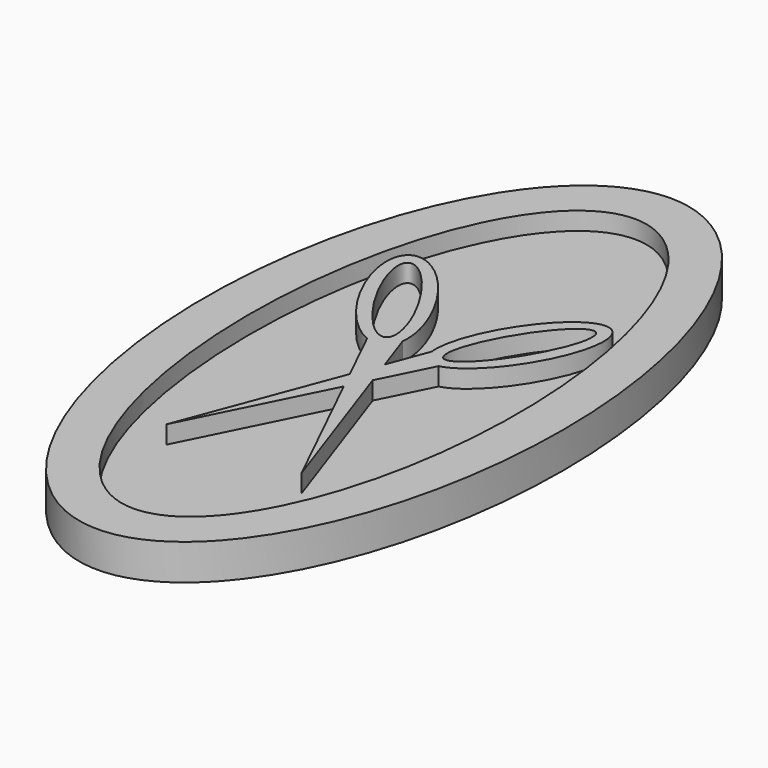
from build123d import *

# Parameters (mm, degrees)
F1_DEPTH = 2.54
F3_DEPTH = 1.27
F5_DEPTH = 1.27


with BuildPart() as f1:
    # F0 (on Top) → F1 (new body)
    with BuildSketch(Plane.XY):
        with BuildLine():
            add(Edge.make_bspline(
                [(0, 25.4), (-21.9970452561, 25.4), (-10.9985226281, -12.7), (0, -50.8), (10.9985226281, -12.7), (21.9970452561, 25.4), (0, 25.4)],
                knots=[0, 0, 0, 2.0943951024, 2.0943951024, 4.1887902048, 4.1887902048, 6.2831853072, 6.2831853072, 6.2831853072], degree=2, weights=[1, 0.5, 1, 0.5, 1, 0.5, 1]))
        make_face()
    extrude(amount=F1_DEPTH)

    # F2 (on face) → F3 (cut)
    with BuildSketch(Plane.XY.offset(2.54)):
        with BuildLine():
            add(Edge.make_bspline(
                [(0, 22.225), (-16.4977839421, 22.225), (-8.248891971, -11.1125), (0, -44.45), (8.248891971, -11.1125), (16.4977839421, 22.225), (0, 22.225)],
                knots=[0, 0, 0, 2.0943951024, 2.0943951024, 4.1887902048, 4.1887902048, 6.2831853072, 6.2831853072, 6.2831853072], degree=2, weights=[1, 0.5, 1, 0.5, 1, 0.5, 1]))
        make_face()
    extrude(amount=-F3_DEPTH, mode=Mode.SUBTRACT)

    # F4 (on face) → F5 (join)
    with BuildSketch(Plane.XY.offset(1.27)):
        with BuildLine():
            add(Edge.make_bspline(
                [(-2.6166992996, 1.7728842483), (-1.8846172421, 1.4764217718), (-1.4218727238, 1.7528665292)],
                knots=[5.7964565865, 5.7964565865, 5.7964565865, 6.2831853072, 6.2831853072, 6.2831853072], degree=2, weights=[1, 0.9705327618, 1]))
            Line((-2.6166992996, 1.7728842483), (-0.701467986, -2.1578199175))
            Line((-0.701467986, -2.1578199175), (0.0940304651, -0.04659023))
            Line((0.0940304651, -0.04659023), (-0.8801152187, 2.7570072737))
            add(Edge.make_bspline(
                [(-1.4218727238, 1.7528665292), (-0.9772507181, 2.0184848512), (-0.8801152187, 2.7570072737)],
                knots=[0, 0, 0, 0.4683694508, 0.4683694508, 0.4683694508], degree=2, weights=[1, 0.9727038491, 1]))
        make_face()
        with BuildLine():
            add(Edge.make_bspline(
                [(-0.8801152187, 2.7570072737), (-0.3794576598, 6.5635129873), (-4.4825810219, 10.1847993346), (-8.5857043839, 13.8060856819), (-7.4139698921, 8.5235798663), (-6.2422354002, 3.2410740507), (-2.6166992996, 1.7728842483)],
                knots=[0.4683694508, 0.4683694508, 0.4683694508, 2.244398496, 2.244398496, 4.0204275413, 4.0204275413, 5.7964565865, 5.7964565865, 5.7964565865], degree=2, weights=[1, 0.6309536433, 1, 0.6309536433, 1, 0.6309536433, 1]))
            add(Edge.make_bspline(
                [(-2.6166992996, 1.7728842483), (-1.8846172421, 1.4764217718), (-1.4218727238, 1.7528665292)],
                knots=[5.7964565865, 5.7964565865, 5.7964565865, 6.2831853072, 6.2831853072, 6.2831853072], degree=2, weights=[1, 0.9705327618, 1]))
            add(Edge.make_bspline(
                [(-1.4218727238, 1.7528665292), (-0.9772507181, 2.0184848512), (-0.8801152187, 2.7570072737)],
                knots=[0, 0, 0, 0.4683694508, 0.4683694508, 0.4683694508], degree=2, weights=[1, 0.9727038491, 1]))
        make_face()
        with BuildLine():
            add(Edge.make_bspline(
                [(-1.9045446386, 2.5371405266), (-0.0620698078, 3.6311099228), (-4.4322609589, 8.8928895949), (-8.8024521099, 14.1546692669), (-6.2747357897, 7.7989201987), (-3.7470194695, 1.4431711304), (-1.9045446386, 2.5371405266)],
                knots=[0, 0, 0, 2.0943951024, 2.0943951024, 4.1887902048, 4.1887902048, 6.2831853072, 6.2831853072, 6.2831853072], degree=2, weights=[1, 0.5, 1, 0.5, 1, 0.5, 1]))
        make_face(mode=Mode.SUBTRACT)
        Polygon((0.0940304651, -0.04659023), (-0.701467986, -2.1578199175), (-0.0364450497, -3.5226725113), (0.752230505, -1.940894151), align=None)
        Polygon((-0.0364450497, -3.5226725113), (-0.701467986, -2.1578199175), (-4.8637278378, -13.2043361664), align=None)
        Polygon((0.752230505, -1.940894151), (-0.0364450497, -3.5226725113), (4.6283779666, -13.0964713171), align=None)
        with BuildLine():
            Line((1.1597512568, 2.7818016679), (0.0940304651, -0.04659023))
            Line((0.0940304651, -0.04659023), (0.752230505, -1.940894151))
            Line((0.752230505, -1.940894151), (2.5481730256, 1.6610724607))
            add(Edge.make_bspline(
                [(1.7046490131, 1.7528665292), (2.0468458244, 1.5484372799), (2.5481730256, 1.6610724607)],
                knots=[0, 0, 0, 0.3631664302, 0.3631664302, 0.3631664302], degree=2, weights=[1, 0.9835590176, 1]))
            add(Edge.make_bspline(
                [(1.1597512568, 2.7818016679), (1.2521679245, 2.0231798874), (1.7046490131, 1.7528665292)],
                knots=[5.8068440318, 5.8068440318, 5.8068440318, 6.2831853072, 6.2831853072, 6.2831853072], degree=2, weights=[1, 0.9717711935, 1]))
        make_face()
        with BuildLine():
            add(Edge.make_bspline(
                [(2.5481730256, 1.6610724607), (6.0408979867, 2.4457969012), (7.6042149535, 8.1510741315), (9.1675319203, 13.8563513619), (4.9201752335, 10.3176216282), (0.6728185468, 6.7788918945), (1.1597512568, 2.7818016679)],
                knots=[0.3631664302, 0.3631664302, 0.3631664302, 2.1777256307, 2.1777256307, 3.9922848312, 3.9922848312, 5.8068440318, 5.8068440318, 5.8068440318], degree=2, weights=[1, 0.6158912416, 1, 0.6158912416, 1, 0.6158912416, 1]))
            add(Edge.make_bspline(
                [(1.1597512568, 2.7818016679), (1.2521679245, 2.0231798874), (1.7046490131, 1.7528665292)],
                knots=[5.8068440318, 5.8068440318, 5.8068440318, 6.2831853072, 6.2831853072, 6.2831853072], degree=2, weights=[1, 0.9717711935, 1]))
            add(Edge.make_bspline(
                [(1.7046490131, 1.7528665292), (2.0468458244, 1.5484372799), (2.5481730256, 1.6610724607)],
                knots=[0, 0, 0, 0.3631664302, 0.3631664302, 0.3631664302], degree=2, weights=[1, 0.9835590176, 1]))
        make_face()
        with BuildLine():
            add(Edge.make_bspline(
                [(2.187320928, 2.5371405266), (4.0297957588, 1.4431711304), (6.5575120791, 7.7989201987), (9.0852283993, 14.1546692669), (4.7150372482, 8.8928895949), (0.3448460972, 3.6311099228), (2.187320928, 2.5371405266)],
                knots=[0, 0, 0, 2.0943951024, 2.0943951024, 4.1887902048, 4.1887902048, 6.2831853072, 6.2831853072, 6.2831853072], degree=2, weights=[1, 0.5, 1, 0.5, 1, 0.5, 1]))
        make_face(mode=Mode.SUBTRACT)
    extrude(amount=F5_DEPTH)


solid = f1.part
